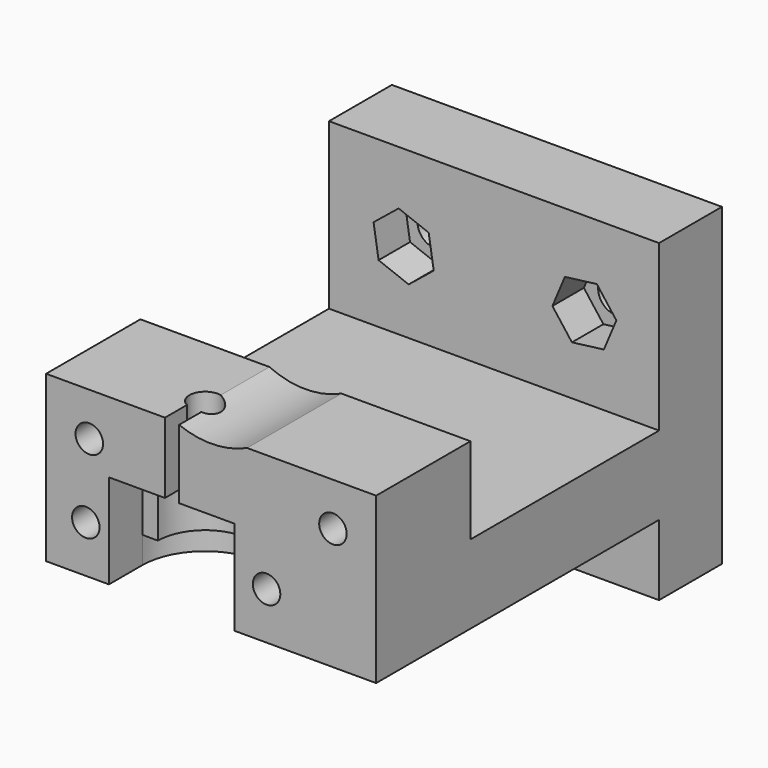
from build123d import *

# Parameters (mm, degrees)
F0_R      = 1.75
F1_DEPTH  = 15
F2_W      = 42
F2_H      = 30
F2_H_2    = 45
F3_DEPTH  = 10
F4_W      = 42
F4_H      = 40
F4_R      = 2.25
F5_DEPTH  = 10
F6_R      = 2
F7_DEPTH  = 25
F8_R      = 2
F9_DEPTH  = 12
F11_DEPTH = 8.5
F12_R     = 6
F13_DEPTH = 9
F14_R     = 8
F15_DEPTH = 3.4
F16_W     = 16
F16_H     = 8.6135048579
F17_DEPTH = 12
F18_R     = 1.75
F19_DEPTH = 55
F21_DEPTH = 5
F22_W     = 1.8
F22_H     = 3.5010978645
F23_DEPTH = 25


with BuildPart() as f1:
    # F0 (on Front) → F1 (new body)
    with BuildSketch(Plane.XZ):
        with BuildLine():
            Line((-21, -21), (21, -21))
            Line((21, -21), (21, -10))
            Line((21, -10), (4.582575695, -10))
            ThreePointArc((4.582575695, -10), (0, -11), (-4.582575695, -10))
            Line((-4.582575695, -10), (-21, -10))
            Line((-21, -10), (-21, -21))
        make_face()
        with Locations((-15.5, -15.5)):
            Circle(F0_R, mode=Mode.SUBTRACT)
        with Locations((15.5, -15.5)):
            Circle(F0_R, mode=Mode.SUBTRACT)
    extrude(amount=-F1_DEPTH)

    # F2 (on face) → F3 (join)
    with BuildSketch(Plane(origin=(0, 0, -21), x_dir=(1, 0, 0), z_dir=(0, 0, -1))):
        with Locations((0, -30)):
            Rectangle(F2_W, F2_H)
        with Locations((0, -22.5)):
            Rectangle(F2_W, F2_H_2)
    extrude(amount=F3_DEPTH)

    # F4 (on face) → F5 (join)
    with BuildSketch(Plane(origin=(0, 45, 0), x_dir=(-1, 0, 0), z_dir=(0, 1, 0))):
        with Locations((0, -20)):
            Rectangle(F4_W, F4_H)
        with Locations((-11.5, -33.9412614703)):
            Circle(F4_R, mode=Mode.SUBTRACT)
        with Locations((11.5, -33.9412614703)):
            Circle(F4_R, mode=Mode.SUBTRACT)
        with Locations((-11.5, -10.9412614703)):
            Circle(F4_R, mode=Mode.SUBTRACT)
        with Locations((11.5, -10.9412614703)):
            Circle(F4_R, mode=Mode.SUBTRACT)
    extrude(amount=F5_DEPTH)

    # F6 (on face) → F7 (cut)
    with BuildSketch(Plane.XY.offset(-10)):
        with Locations((-5, 5.3)):
            Circle(F6_R)
    extrude(amount=-F7_DEPTH, mode=Mode.SUBTRACT)

    # F8 (on face) → F9 (cut)
    with BuildSketch(Plane(origin=(0, 0, -31), x_dir=(1, 0, 0), z_dir=(0, 0, -1))):
        with BuildLine():
            ThreePointArc((-10.9924953066, 0), (-7.8337287756, -12.781308791), (3, -5.3))
            ThreePointArc((3, -5.3), (2.481308791, -2.4662712244), (0.9924953066, 0))
            Line((0.9924953066, 0), (-10.9924953066, 0))
        make_face()
        with Locations((-5, -5.3)):
            Circle(F8_R, mode=Mode.SUBTRACT)
    extrude(amount=-F9_DEPTH, mode=Mode.SUBTRACT)

    # F10 (on face) → F11 (join)
    with BuildSketch(Plane(origin=(0, 0, -31), x_dir=(1, 0, 0), z_dir=(0, 0, -1))):
        with BuildLine():
            ThreePointArc((-10.9924953066, 0), (-7.8337287756, -12.781308791), (3, -5.3))
            ThreePointArc((3, -5.3), (2.481308791, -2.4662712244), (0.9924953066, 0))
            ThreePointArc((0.9924953066, 0), (-5, 2.7), (-10.9924953066, 0))
        make_face()
    extrude(amount=-F11_DEPTH)

    # F12 (on face) → F13 (cut)
    with BuildSketch(Plane(origin=(0, 0, -31), x_dir=(1, 0, 0), z_dir=(0, 0, -1))):
        with Locations((-5, -5.3)):
            Circle(F12_R)
    extrude(amount=-F13_DEPTH, mode=Mode.SUBTRACT)

    # F14 (on face) → F15 (cut)
    with BuildSketch(Plane(origin=(0, 0, -31), x_dir=(1, 0, 0), z_dir=(0, 0, -1))):
        with Locations((-5, -5.3)):
            Circle(F14_R)
    extrude(amount=-F15_DEPTH, mode=Mode.SUBTRACT)

    # F16 (on face) → F17 (cut)
    with BuildSketch(Plane(origin=(0, 0, -31), x_dir=(1, 0, 0), z_dir=(0, 0, -1))):
        with Locations((-5, -0.993247571)):
            Rectangle(F16_W, F16_H)
    extrude(amount=-F17_DEPTH, mode=Mode.SUBTRACT)

    # F18 (on face) → F19 (cut)
    with BuildSketch(Plane.XZ):
        with Locations((-15.9438401461, -25)):
            Circle(F18_R)
        with Locations((7.0561598539, -25)):
            Circle(F18_R)
    extrude(amount=-F19_DEPTH, mode=Mode.SUBTRACT)

    # F20 (on face) → F21 (cut)
    with BuildSketch(Plane.XZ.offset(-45)):
        Polygon((-10.8610754958, -14.9911720222), (-7.673212327, -12.4128918945), (-8.3121368311, -8.3629813427), (-12.1389245042, -6.8913509185), (-15.326787673, -9.4696310461), (-14.6878631689, -13.519541598), align=None)
        Polygon((9.9157388399, -14.7228109644), (13.9827873475, -14.2040466283), (15.5670485076, -10.4224971341), (13.0842611601, -7.1597119762), (9.0172126525, -7.6784763124), (7.4329514924, -11.4600258065), align=None)
    extrude(amount=-F21_DEPTH, mode=Mode.SUBTRACT)

    # F22 (on face) → F23 (cut)
    with BuildSketch(Plane.XY.offset(-10)):
        with Locations((-4.9740429662, 1.7505489322)):
            Rectangle(F22_W, F22_H)
    extrude(amount=-F23_DEPTH, mode=Mode.SUBTRACT)


solid = f1.part
